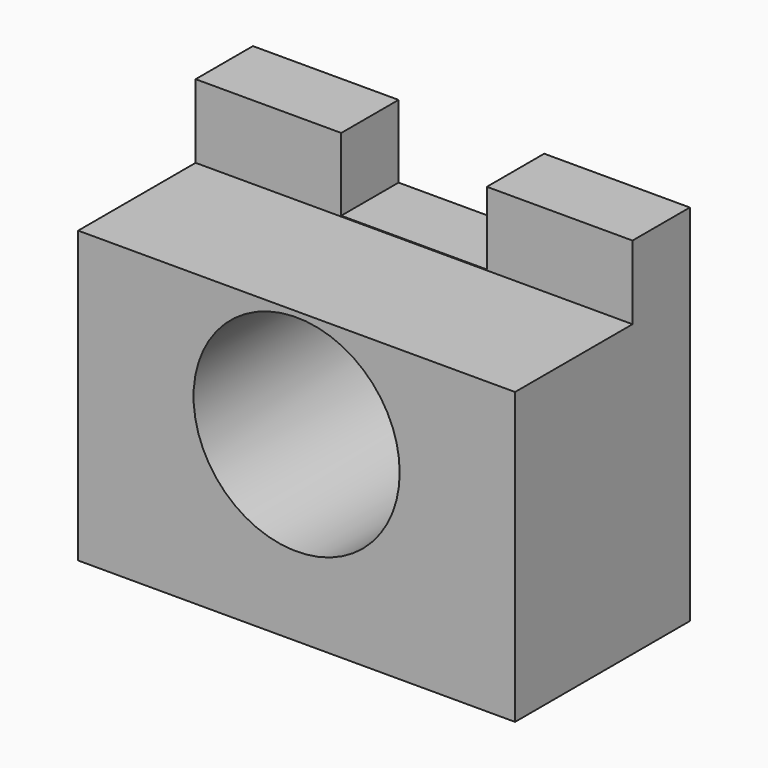
from build123d import *

# Parameters (mm, degrees)
F0_W     = 60
F0_H     = 50
F0_R     = 14.1543173952
F1_DEPTH = 30
F2_W     = 20.1585159823
F2_H     = 10.1142704487
F3_DEPTH = 95
F4_W     = 20
F4_H     = 9.8414840177
F5_DEPTH = 10


with BuildPart() as f1:
    # F0 (on Front) → F1 (new body)
    with BuildSketch(Plane.XZ):
        with Locations((0, 25)):
            Rectangle(F0_W, F0_H)
        with Locations((0, 25)):
            Circle(F0_R, mode=Mode.SUBTRACT)
    extrude(amount=F1_DEPTH)

    # F2 (on face) → F3 (cut)
    with BuildSketch(Plane.YZ.offset(30)):
        with Locations((-19.9207420088, 44.9428647757)):
            Rectangle(F2_W, F2_H)
    extrude(amount=-F3_DEPTH, mode=Mode.SUBTRACT)

    # F4 (on face) → F5 (cut)
    with BuildSketch(Plane.XY.offset(50)):
        with Locations((0, -4.9207420088)):
            Rectangle(F4_W, F4_H)
    extrude(amount=-F5_DEPTH, mode=Mode.SUBTRACT)


solid = f1.part
